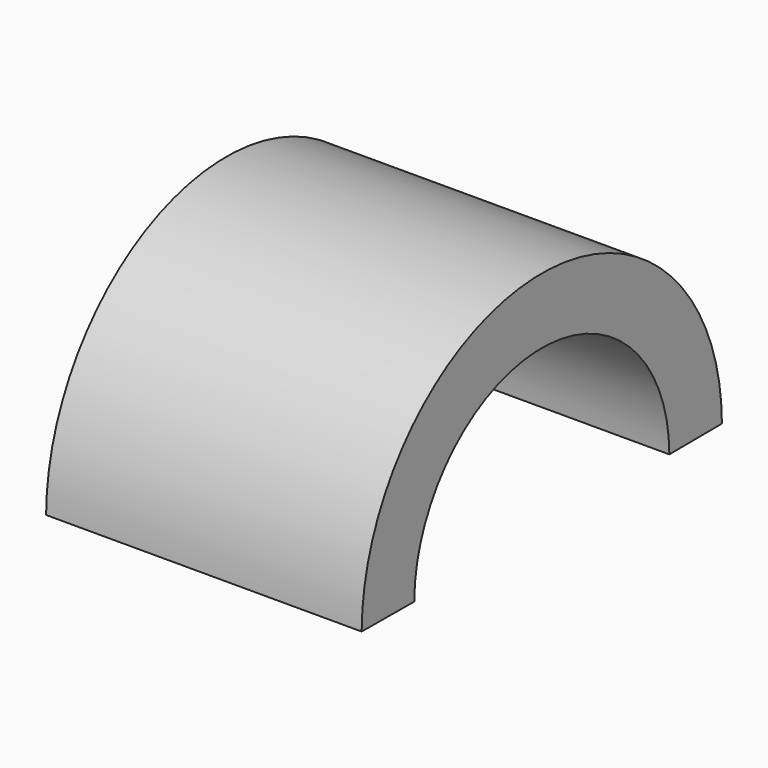
from build123d import *

# Parameters (mm, degrees)
F1_DEPTH = 25.4


with BuildPart() as f1:
    # F0 (on Right) → F1 (new body)
    with BuildSketch(Plane.YZ):
        with BuildLine():
            ThreePointArc((-12.042965, 0), (0.790147, 12.758512), (13.623259, 0))
            Line((13.623259, 0), (18.913241, 0.030841))
            ThreePointArc((18.913241, 0.030841), (0.790147, 18.048584), (-17.332947, 0.030841))
            Line((-17.332947, 0.030841), (-12.042965, 0))
        make_face()
    extrude(amount=F1_DEPTH)


solid = f1.part
